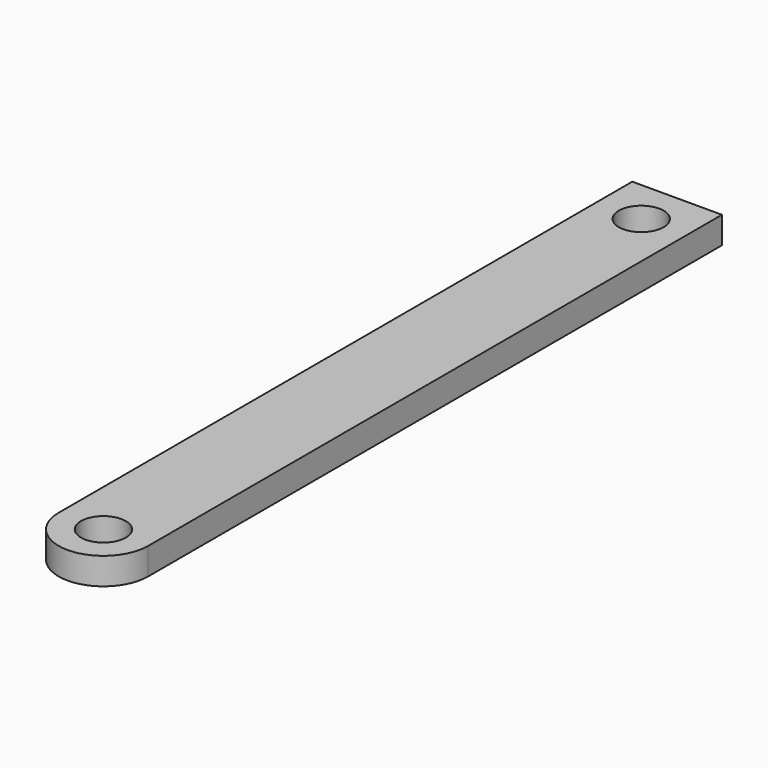
from build123d import *

# Parameters (mm, degrees)
F0_R     = 2.5
F1_DEPTH = 3


with BuildPart() as f1:
    # F0 (on Top) → F1 (new body)
    with BuildSketch(Plane.XY):
        with BuildLine():
            ThreePointArc((-2.5, -40), (0, -37.5), (2.5, -40))
            Line((2.5, -40), (5, -40))
            Line((5, -40), (5, 40))
            Line((5, 40), (-5, 40))
            Line((-5, 40), (-5, -40))
            Line((-5, -40), (-2.5, -40))
        make_face()
        with Locations((0, 35)):
            Circle(F0_R, mode=Mode.SUBTRACT)
        with BuildLine():
            Line((5, -40), (2.5, -40))
            ThreePointArc((2.5, -40), (0, -42.5), (-2.5, -40))
            Line((-2.5, -40), (-5, -40))
            ThreePointArc((-5, -40), (0, -45), (5, -40))
        make_face()
    extrude(amount=F1_DEPTH)


solid = f1.part
